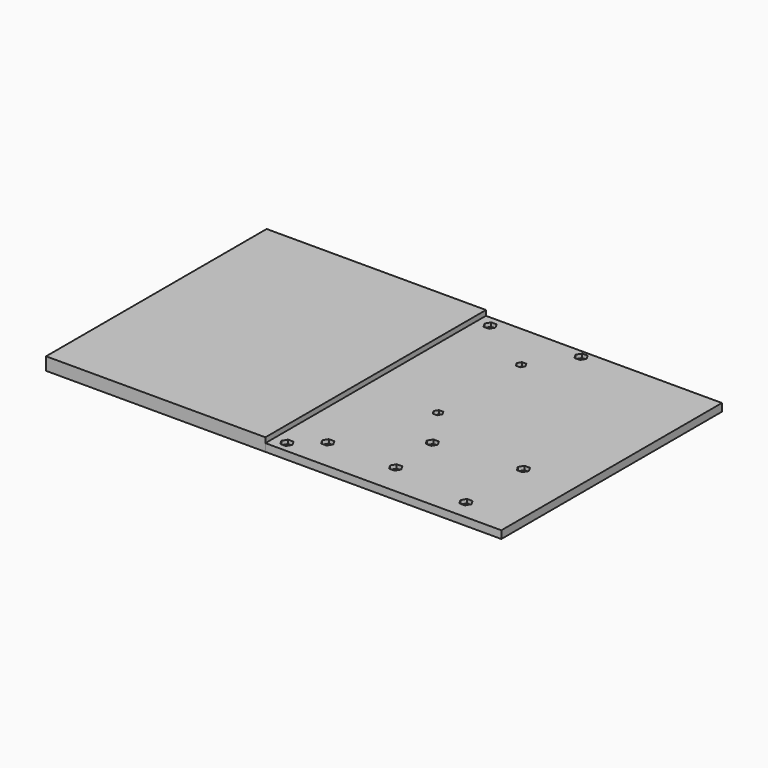
from build123d import *

# Parameters (mm, degrees)
SKETCH_W        = 355
SKETCH_H        = 215
PAD_DEPTH       = 6
SKETCH001_R     = 2.25
SKETCH001_R_2   = 1.75
POCKET_DEPTH    = 10
POCKET001_DEPTH = 3
BOX_W           = 171
BOX_H           = 215
BOX_DEPTH       = 10


with BuildPart() as body:
    # Sketch → Pad (new body)
    with BuildSketch(Plane.XY):
        with Locations((177.5, 107.5)):
            Rectangle(SKETCH_W, SKETCH_H)
    extrude(amount=PAD_DEPTH)

    # Sketch001 (on Face6 of Pad) → Pocket (cut)
    with BuildSketch(Plane.XY.offset(6)):
        with Locations((45, 13.5)):
            Circle(SKETCH001_R)
        with Locations((45, 201.5)):
            Circle(SKETCH001_R)
        with Locations((145, 93.5)):
            Circle(SKETCH001_R)
        with Locations((145, 151.5)):
            Circle(SKETCH001_R)
        with Locations((200, 24.5)):
            Circle(SKETCH001_R)
        with Locations((253, 24.5)):
            Circle(SKETCH001_R)
        with Locations((250, 209)):
            Circle(SKETCH001_R)
        with Locations((250, 64)):
            Circle(SKETCH001_R)
        with Locations((315, 15.5)):
            Circle(SKETCH001_R)
        with Locations((315, 71.5)):
            Circle(SKETCH001_R)
        with Locations((228, 97)):
            Circle(SKETCH001_R_2)
        with Locations((228, 178)):
            Circle(SKETCH001_R_2)
        with Locations((161, 8.5)):
            Circle(SKETCH001_R)
        with Locations((181, 8.5)):
            Circle(SKETCH001_R)
        with Locations((161, 206.5)):
            Circle(SKETCH001_R)
        with Locations((181, 206.5)):
            Circle(SKETCH001_R)
    extrude(amount=-POCKET_DEPTH, mode=Mode.SUBTRACT)

    # Sketch002 (on Face5 of Pocket) → Pocket001 (cut)
    with BuildSketch(Plane.XY.offset(6)):
        Polygon((47.165064, 17.25), (42.834936, 17.25), (40.669873, 13.5), (42.834936, 9.75), (47.165064, 9.75), (49.330127, 13.5), align=None)
        Polygon((47.165064, 197.75), (49.330127, 201.5), (47.165064, 205.25), (42.834936, 205.25), (40.669873, 201.5), (42.834936, 197.75), align=None)
        Polygon((147.165064, 97.25), (142.834936, 97.25), (140.669873, 93.5), (142.834936, 89.75), (147.165064, 89.75), (149.330127, 93.5), align=None)
        Polygon((149.330127, 151.5), (147.165064, 155.25), (142.834936, 155.25), (140.669873, 151.5), (142.834936, 147.75), (147.165064, 147.75), align=None)
        Polygon((163.165064, 12.25), (158.834936, 12.25), (156.669873, 8.5), (158.834936, 4.75), (163.165064, 4.75), (165.330127, 8.5), align=None)
        Polygon((183.165064, 12.25), (178.834936, 12.25), (176.669873, 8.5), (178.834936, 4.75), (183.165064, 4.75), (185.330127, 8.5), align=None)
        Polygon((163.165064, 202.75), (165.330127, 206.5), (163.165064, 210.25), (158.834936, 210.25), (156.669873, 206.5), (158.834936, 202.75), align=None)
        Polygon((183.165064, 202.75), (185.330127, 206.5), (183.165064, 210.25), (178.834936, 210.25), (176.669873, 206.5), (178.834936, 202.75), align=None)
        Polygon((202.165064, 28.25), (197.834936, 28.25), (195.669873, 24.5), (197.834936, 20.75), (202.165064, 20.75), (204.330127, 24.5), align=None)
        Polygon((255.165064, 28.25), (250.834936, 28.25), (248.669873, 24.5), (250.834936, 20.75), (255.165064, 20.75), (257.330127, 24.5), align=None)
        Polygon((252.165064, 60.25), (254.330127, 64), (252.165064, 67.75), (247.834936, 67.75), (245.669873, 64), (247.834936, 60.25), align=None)
        Polygon((252.165064, 205.25), (254.330127, 209), (252.165064, 212.75), (247.834936, 212.75), (245.669873, 209), (247.834936, 205.25), align=None)
        Polygon((317.165064, 19.25), (312.834936, 19.25), (310.669873, 15.5), (312.834936, 11.75), (317.165064, 11.75), (319.330127, 15.5), align=None)
        Polygon((319.330127, 71.5), (317.165064, 75.25), (312.834936, 75.25), (310.669873, 71.5), (312.834936, 67.75), (317.165064, 67.75), align=None)
        Polygon((231.464102, 97), (229.732051, 100), (226.267949, 100), (224.535898, 97), (226.267949, 94), (229.732051, 94), align=None)
        Polygon((229.732051, 181), (226.267949, 181), (224.535898, 178), (226.267949, 175), (229.732051, 175), (231.464102, 178), align=None)
    extrude(amount=-POCKET001_DEPTH, mode=Mode.SUBTRACT)


with BuildPart() as cube:
    # Box → Box (new body)
    with BuildSketch(Plane.XY):
        with Locations((85.5, 107.5)):
            Rectangle(BOX_W, BOX_H)
    extrude(amount=BOX_DEPTH)


solid = Compound([body.part, cube.part])
